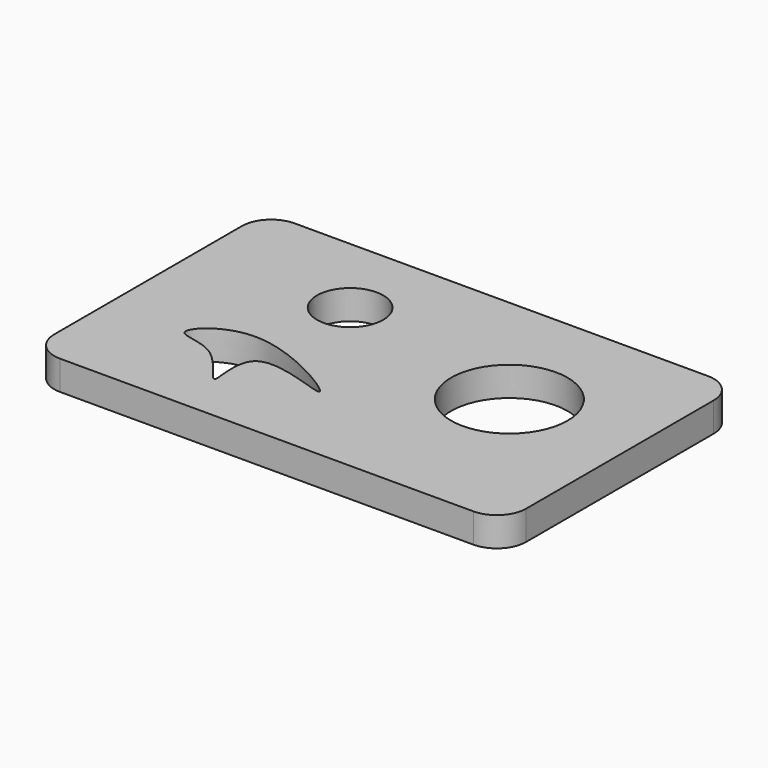
from build123d import *

# Parameters (mm, degrees)
F0_W     = 16.1
F0_H     = 10
F1_DEPTH = 1
F2_R     = 1.1305631426
F2_R_2   = 1.9866513714
F3_DEPTH = 25
F4_R     = 1


with BuildPart() as f1:
    # F0 (on Top) → F1 (new body)
    with BuildSketch(Plane.XY):
        with Locations((-0.8312835707, 0)):
            Rectangle(F0_W, F0_H)
    extrude(amount=F1_DEPTH)

    # F2 (on face) → F3 (cut)
    with BuildSketch(Plane.XY.offset(1)):
        with Locations((-3.6891188938, 2.1283372771)):
            Circle(F2_R)
        with Locations((2.922917949, 0.6526896614)):
            Circle(F2_R_2)
        with BuildLine():
            add(Edge.make_bspline(
                [(-6.2523519843, -1.7231294755), (-6.3426610958, -1.4619046976), (-4.6955064271, 0.2172612121), (0.5907684178, -3.2110536183), (-4.5123377949, -0.819748707), (-3.5490910867, -4.3265825151), (-4.9051495206, -1.7564085326), (-6.1785121952, -1.9367157041), (-6.2523519843, -1.7231294755)],
                knots=[0, 0, 0, 0, 0.1630625048, 0.3870646688, 0.5711478646, 0.7161540937, 0.8666745716, 1, 1, 1, 1], degree=3))
        make_face()
    extrude(amount=-F3_DEPTH, mode=Mode.SUBTRACT)

    # F4
    f4_edges = [f1.edges().sort_by_distance(p)[0] for p in [
        (-8.881284, -5, 0.5),
        (-8.881284, 5, 0.5),
        (7.218716, 5, 0.5),
        (7.218716, -5, 0.5),
    ]]
    fillet(f4_edges, radius=F4_R)


solid = f1.part
